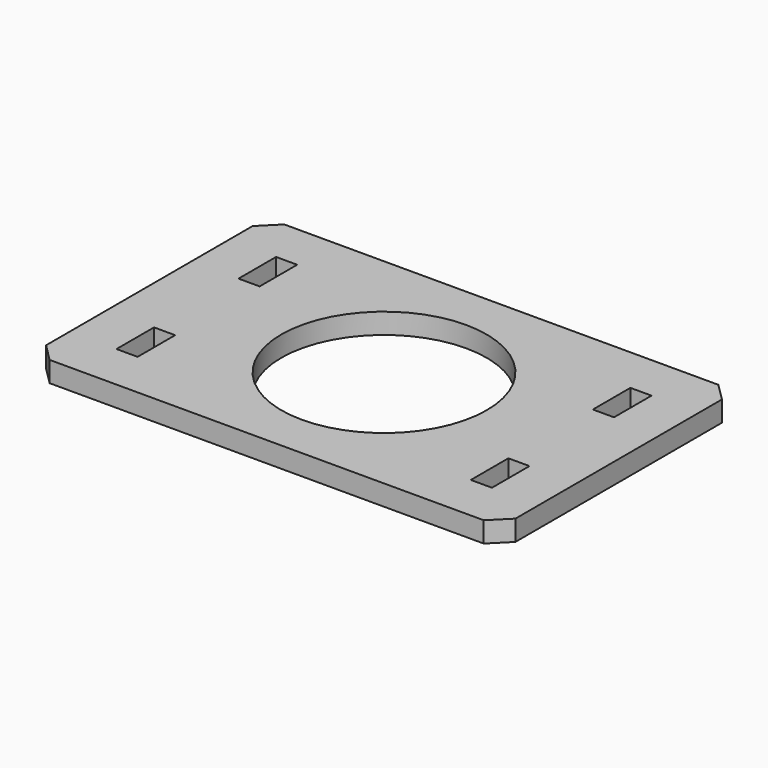
from build123d import *

# Parameters (mm, degrees)
F0_W     = 400
F0_H     = 250
F0_W_2   = 18
F0_H_2   = 40
F0_R     = 87.5
F1_DEPTH = 17.5
F2_SIZE  = 15


with BuildPart() as f1:
    # F0 (on Top) → F1 (new body)
    with BuildSketch(Plane.XY):
        with Locations((-107.214418, 42.974777)):
            Rectangle(F0_W, F0_H)
        with Locations((-258.214418, -22.025223)):
            Rectangle(F0_W_2, F0_H_2, mode=Mode.SUBTRACT)
        with Locations((43.785582, -22.025223)):
            Rectangle(F0_W_2, F0_H_2, mode=Mode.SUBTRACT)
        with Locations((-107.214418, 42.974777)):
            Circle(F0_R, mode=Mode.SUBTRACT)
        with Locations((-258.214418, 107.974777)):
            Rectangle(F0_W_2, F0_H_2, mode=Mode.SUBTRACT)
        with Locations((43.785582, 107.974777)):
            Rectangle(F0_W_2, F0_H_2, mode=Mode.SUBTRACT)
    extrude(amount=F1_DEPTH)

    # F2
    f2_edges = [f1.edges().sort_by_distance(p)[0] for p in [
        (-307.214418, 167.974777, 8.75),
        (92.785582, 167.974777, 8.75),
        (92.785582, -82.025223, 8.75),
        (-307.214418, -82.025223, 8.75),
    ]]
    chamfer(f2_edges, length=F2_SIZE)


solid = f1.part
